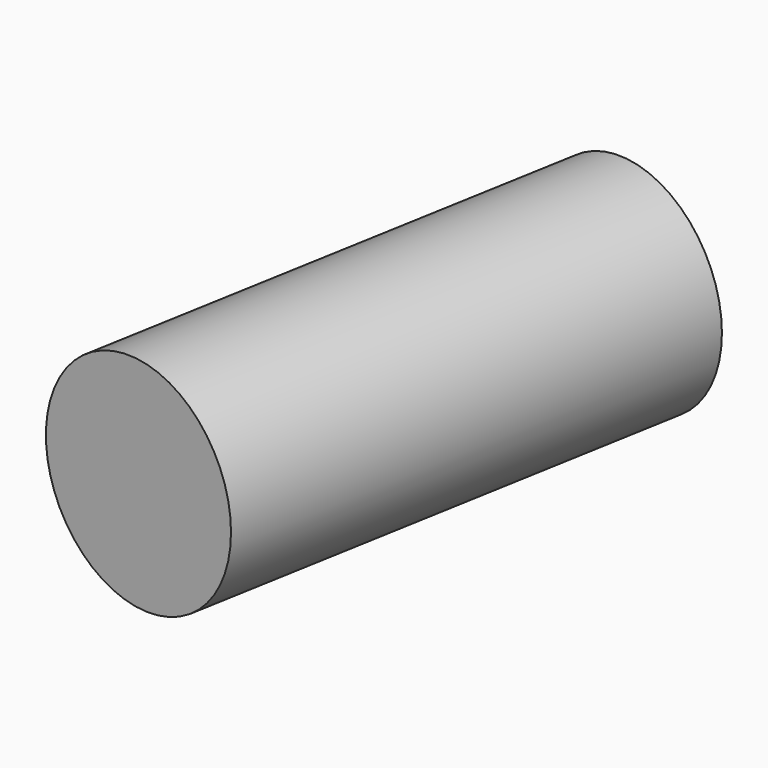
from build123d import *

# Parameters (mm, degrees)
CYLINDER037_R               = 1.25
CYLINDER037_DEPTH           = 14
CYLINDER037_ROLL_ANGLE      = -89.999776
CYLINDER037_PITCH_ANGLE     = 1.4e-05
CYLINDER037_PLACEMENT_ANGLE = -9.999925
CYLINDER029_R               = 3
CYLINDER029_DEPTH           = 14
CYLINDER029_ROLL_ANGLE      = -89.999776
CYLINDER029_PITCH_ANGLE     = 1.4e-05
CYLINDER029_PLACEMENT_ANGLE = -9.999925


with BuildPart() as cylinder037:
    # Cylinder037 → Cylinder037 (new body)
    with BuildSketch(Plane.XY):
        Circle(CYLINDER037_R)
    extrude(amount=CYLINDER037_DEPTH)


with BuildPart() as cylinder037_1:
    # Cylinder037 roll: moved
    add(cylinder037.part.rotate(Axis((0, 0, 0), (1, 0, 0)), CYLINDER037_ROLL_ANGLE))


with BuildPart() as cylinder037_2:
    # Cylinder037 pitch: moved
    add(cylinder037_1.part.rotate(Axis((0, 0, 0), (0, 1, 0)), CYLINDER037_PITCH_ANGLE))


with BuildPart() as cylinder037_3:
    # Cylinder037 placement: moved
    add(cylinder037_2.part.moved(Location((39.936521, -25.15501, 25.500007))).rotate(Axis((39.936521, -25.15501, 25.500007), (0, 0, 1)), CYLINDER037_PLACEMENT_ANGLE))


with BuildPart() as cut034:
    # Cylinder029 → Cylinder029 (new body)
    with BuildSketch(Plane.XY):
        Circle(CYLINDER029_R)
    extrude(amount=CYLINDER029_DEPTH)


with BuildPart() as cut034_1:
    # Cylinder029 roll: moved
    add(cut034.part.rotate(Axis((0, 0, 0), (1, 0, 0)), CYLINDER029_ROLL_ANGLE))


with BuildPart() as cut034_2:
    # Cylinder029 pitch: moved
    add(cut034_1.part.rotate(Axis((0, 0, 0), (0, 1, 0)), CYLINDER029_PITCH_ANGLE))


with BuildPart() as cut034_3:
    # Cylinder029 placement: moved
    add(cut034_2.part.moved(Location((39.589228, -27.124626, 25.499999))).rotate(Axis((39.589228, -27.124626, 25.499999), (0, 0, 1)), CYLINDER029_PLACEMENT_ANGLE))

    # Cut034: cut Cylinder037
    add(cylinder037_3.part, mode=Mode.SUBTRACT)


solid = cut034_3.part
